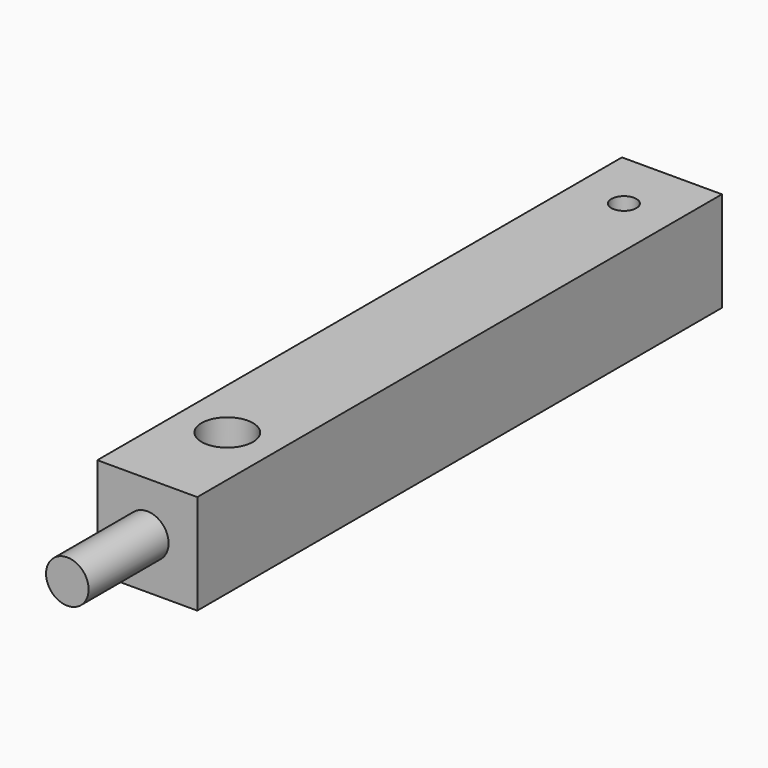
from build123d import *

# Parameters (mm, degrees)
F0_R     = 0.79375
F0_W     = 6.35
F0_H     = 25.4
F0_R_2   = 1.63195
F0_R_3   = 1.35255
F1_DEPTH = 6.35
F2_DEPTH = 5.08
F3_R     = 1.35255
F4_DEPTH = 6.35


with BuildPart() as f1:
    # F0 (on Top) → F1 (new body)
    with BuildSketch(Plane.XY):
        Polygon((-3.175, 25.146), (-3.175, 12.7), (3.175, 12.7), (3.175, 25.146), (3.175, 28.956), (-3.175, 28.956), align=None)
        with Locations((0, 25.146)):
            Circle(F0_R, mode=Mode.SUBTRACT)
        Rectangle(F0_W, F0_H)
        with Locations((0, -6.35)):
            Circle(F0_R_2, mode=Mode.SUBTRACT)
        with Locations((0, 5.08)):
            Circle(F0_R_3, mode=Mode.SUBTRACT)
        with Locations((0, 5.08)):
            Circle(F0_R_3)
    extrude(amount=F1_DEPTH)

    # F0 (on Top) → F2 (cut)
    with BuildSketch(Plane.XY):
        with Locations((0, 5.08)):
            Circle(F0_R_3)
    extrude(amount=F2_DEPTH, mode=Mode.SUBTRACT)

    # F3 (on face) → F4 (join)
    with BuildSketch(Plane.XZ.offset(12.7)):
        with Locations((0, 3.175)):
            Circle(F3_R)
    extrude(amount=F4_DEPTH)


solid = f1.part
